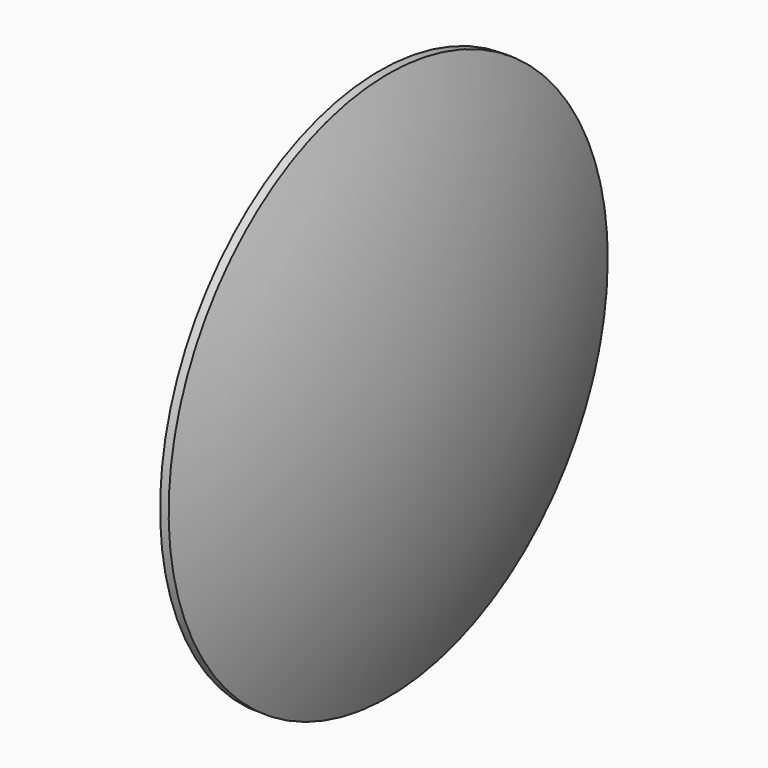
from build123d import *

# Parameters (mm, degrees)
F0_R     = 101.6
F1_DEPTH = 3.175
F4_T     = -1.5875
F5_R     = 50.8
F6_DEPTH = 2.54


with BuildPart() as f1:
    # F0 (on Right) → F1 (new body)
    with BuildSketch(Plane.YZ):
        Circle(F0_R)
    extrude(amount=-F1_DEPTH)


with BuildPart() as f3:
    # F2 (on Front) → F3 (revolve)
    with BuildSketch(Plane.XZ):
        with BuildLine():
            ThreePointArc((19.05, 0), (14.246362094, 51.6852553926), (0, 101.6))
            Line((0, 101.6), (0, 0))
            Line((0, 0), (19.05, 0))
        make_face()
    revolve(axis=Axis((9.525, 0, 0), (-1, 0, 0)))

    # F4
    f4_openings = [f3.faces().sort_by_distance(p)[0] for p in [
        (0, 0, 0),
    ]]
    offset(amount=F4_T, openings=f4_openings)


with BuildPart() as f6:
    # F5 (on face) → F6 (new body)
    with BuildSketch(Plane.YZ):
        with Locations((-46.3319975493, 0)):
            Circle(F5_R)
    extrude(amount=F6_DEPTH)


with BuildPart() as f6_1:
    # F7: moved
    add(f6.part.moved(Location((0, 13.208, 0))))


solid = Compound([f1.part, f3.part, f6_1.part])
